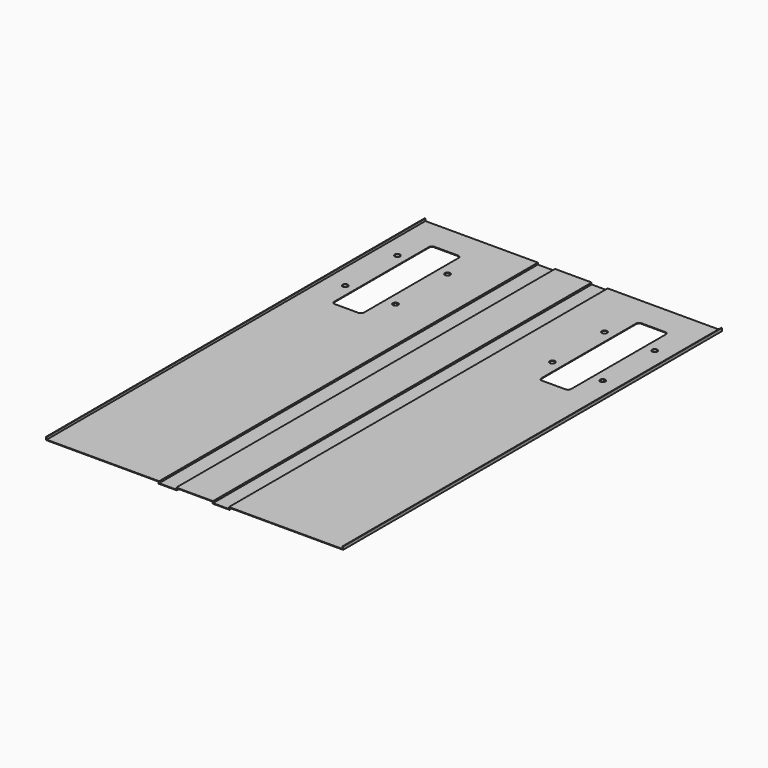
from build123d import *

# Parameters (mm, degrees)
F1_DEPTH = 800
F2_R     = 4.5
F3_DEPTH = 4.001


with BuildPart() as f1:
    # F0 (on Front) → F1 (new body)
    with BuildSketch(Plane.XZ):
        Polygon((-10.976753, 1), (-10.976753, 0), (179.023247, 0), (179.023247, -3), (210.023247, -3), (210.023247, 0), (270.023247, 0), (270.023247, -3), (299.023247, -3), (299.023247, 0), (491.023247, 0), (491.023247, 1), (491.023247, 5), (490.023247, 5), (490.023247, 1), (298.023247, 1), (298.023247, -2), (271.023247, -2), (271.023247, 1), (209.023247, 1), (209.023247, -2), (180.023247, -2), (180.023247, 1), (-9.976753, 1), (-9.976753, 5), (-10.976753, 5), align=None)
    extrude(amount=F1_DEPTH)

    # F2 (on face) → F3 (cut, through all)
    with BuildSketch(Plane.XY.offset(1)):
        with BuildLine():
            Line((85.023223, -50.000276), (45.023223, -50.000276))
            ThreePointArc((45.023223, -50.000276), (41.487689, -51.464742), (40.023223, -55.000276))
            Line((40.023223, -55.000276), (40.023223, -255.000276))
            ThreePointArc((40.023223, -255.000276), (41.487689, -258.53581), (45.023223, -260.000276))
            Line((45.023223, -260.000276), (85.023223, -260.000276))
            ThreePointArc((85.023223, -260.000276), (88.558757, -258.53581), (90.023223, -255.000276))
            Line((90.023223, -255.000276), (90.023223, -55.000276))
            ThreePointArc((90.023223, -55.000276), (88.558757, -51.464742), (85.023223, -50.000276))
        make_face()
        with Locations((22.523223, -100.000276)):
            Circle(F2_R)
        with Locations((22.523223, -210.000276)):
            Circle(F2_R)
        with Locations((107.523223, -100.000276)):
            Circle(F2_R)
        with Locations((107.523223, -210.000276)):
            Circle(F2_R)
        with Locations((457.523223, -210.000276)):
            Circle(F2_R)
        with Locations((372.523223, -100.000276)):
            Circle(F2_R)
        with Locations((372.523223, -210.000276)):
            Circle(F2_R)
        with Locations((457.523223, -100.000276)):
            Circle(F2_R)
        with BuildLine():
            ThreePointArc((440.023223, -55.000276), (438.558757, -51.464742), (435.023223, -50.000276))
            Line((435.023223, -50.000276), (395.023223, -50.000276))
            ThreePointArc((395.023223, -50.000276), (391.487689, -51.464742), (390.023223, -55.000276))
            Line((390.023223, -55.000276), (390.023223, -255.000276))
            ThreePointArc((390.023223, -255.000276), (391.487689, -258.53581), (395.023223, -260.000276))
            Line((395.023223, -260.000276), (435.023223, -260.000276))
            ThreePointArc((435.023223, -260.000276), (438.558757, -258.53581), (440.023223, -255.000276))
            Line((440.023223, -255.000276), (440.023223, -55.000276))
        make_face()
    extrude(amount=-F3_DEPTH, mode=Mode.SUBTRACT)


solid = f1.part
